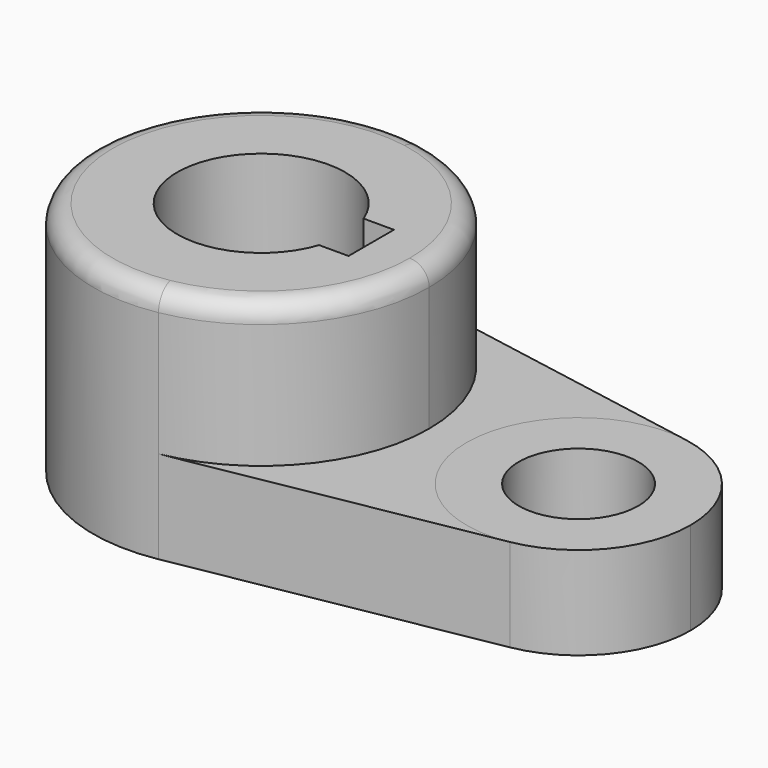
from build123d import *

# Parameters (mm, degrees)
F1_DEPTH = 40.2336
F0_R     = 10.16
F2_DEPTH = 15.7734
F3_DEPTH = 15.7734
F4_R     = 3.302


with BuildPart() as f1:
    # F0 (on Top) → F1 (new body)
    with BuildSketch(Plane.XY):
        with BuildLine():
            ThreePointArc((-16.380831, -28.126541), (0.492547, -18.336262), (7.151522, 0))
            ThreePointArc((7.151522, 0), (0.492547, 18.336262), (-16.380831, 28.126541))
            ThreePointArc((-16.380831, 28.126541), (-49.998478, 0), (-16.380831, -28.126541))
        make_face()
        with BuildLine():
            ThreePointArc((-7.894387, -4.593079), (-35.708834, -0.247471), (-8.061593, 5.058921))
            Line((-8.061593, 5.058921), (-2.894178, 5.058921))
            Line((-2.894178, 5.058921), (-2.894178, -4.593079))
            Line((-2.894178, -4.593079), (-6.585919, -4.593079))
            Line((-6.585919, -4.593079), (-7.894387, -4.593079))
        make_face(mode=Mode.SUBTRACT)
    extrude(amount=F1_DEPTH)

    # F4
    f4_edges = [f1.edges().sort_by_distance(p)[0] for p in [
        (-26.466125, 28.126541, 40.2336),
    ]]
    fillet(f4_edges, radius=F4_R)


with BuildPart() as f2:
    # F0 (on Top) → F2 (new body)
    with BuildSketch(Plane.XY):
        with BuildLine():
            ThreePointArc((51.601522, 0), (47.162205, 12.224174), (35.913287, 18.751028))
            ThreePointArc((35.913287, 18.751028), (13.501522, 0), (35.913287, -18.751028))
            ThreePointArc((35.913287, -18.751028), (47.162205, -12.224174), (51.601522, 0))
        make_face()
        with Locations((32.551522, 0)):
            Circle(F0_R, mode=Mode.SUBTRACT)
    extrude(amount=F2_DEPTH)


with BuildPart() as f3:
    # F0 (on Top) → F3 (new body)
    with BuildSketch(Plane.XY):
        with BuildLine():
            ThreePointArc((-16.380831, 28.126541), (0.492547, 18.336262), (7.151522, 0))
            ThreePointArc((7.151522, 0), (0.492547, -18.336262), (-16.380831, -28.126541))
            Line((-16.380831, -28.126541), (35.913287, -18.751028))
            ThreePointArc((35.913287, -18.751028), (13.501522, 0), (35.913287, 18.751028))
            Line((35.913287, 18.751028), (-16.380831, 28.126541))
        make_face()
    extrude(amount=F3_DEPTH)


solid = Compound([f1.part, f2.part, f3.part])
